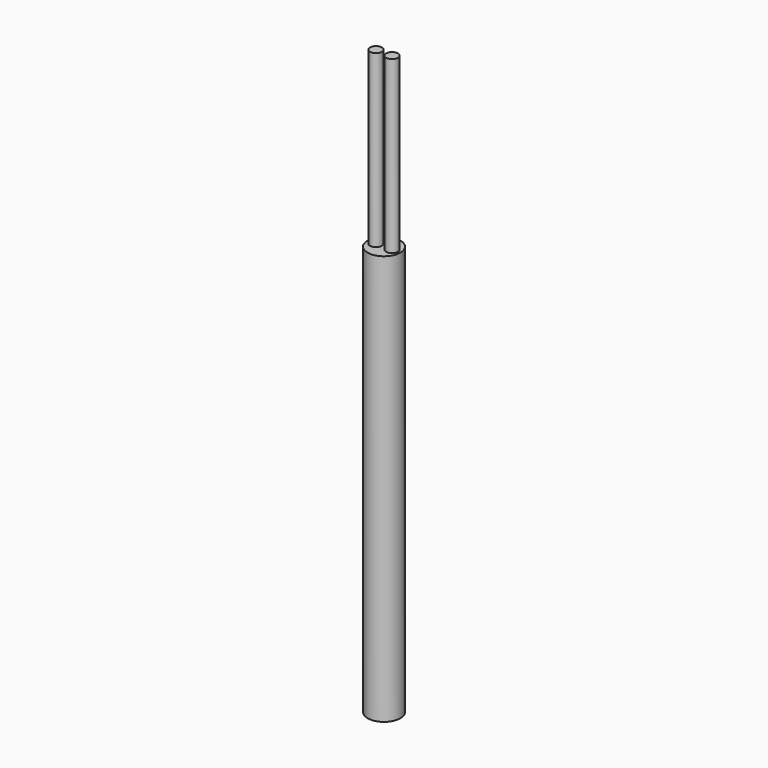
from build123d import *

# Parameters (mm, degrees)
F0_R     = 2.4
F1_DEPTH = 60
F2_R     = 0.874009
F3_DEPTH = 25


with BuildPart() as f1:
    # F0 (on Top) → F1 (new body)
    with BuildSketch(Plane.XY):
        Circle(F0_R)
    extrude(amount=F1_DEPTH)

    # F2 (on face) → F3 (join)
    with BuildSketch(Plane.XY.offset(60)):
        with Locations((-1.178475, 0)):
            Circle(F2_R)
        with Locations((1.178475, 0)):
            Circle(F2_R)
    extrude(amount=F3_DEPTH)


solid = f1.part
